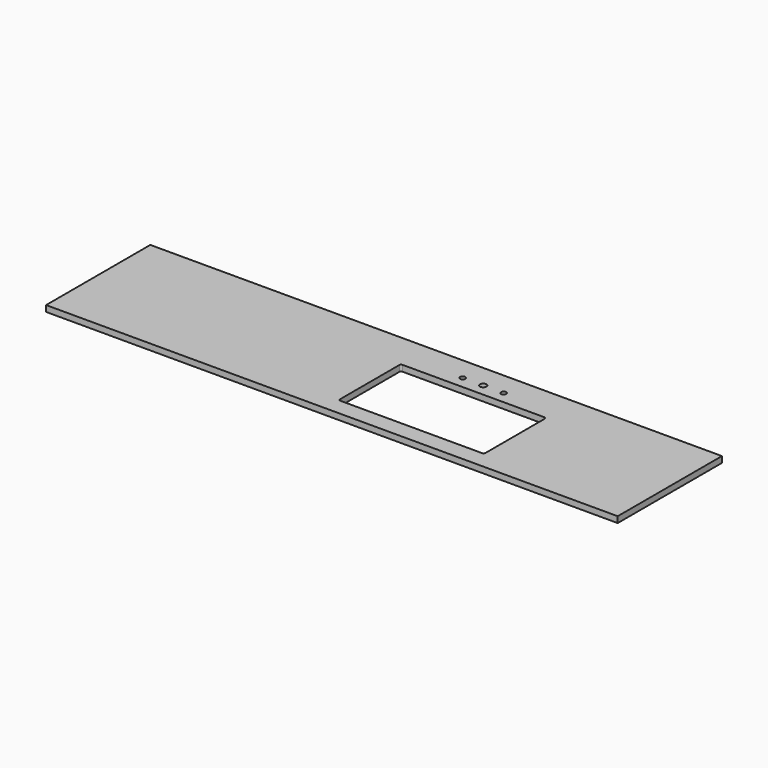
from build123d import *

# Parameters (mm, degrees)
F0_W     = 2830
F0_H     = 645
F0_R     = 13
F0_R_2   = 16
F1_DEPTH = 30


with BuildPart() as f1:
    # F0 (on Top) → F1 (new body)
    with BuildSketch(Plane.XY):
        with Locations((-1415, 322.5)):
            Rectangle(F0_W, F0_H)
        with BuildLine():
            ThreePointArc((-1450, 461), (-1447.363961, 467.363961), (-1441, 470))
            Line((-1441, 470), (-739, 470))
            ThreePointArc((-739, 470), (-732.636039, 467.363961), (-730, 461))
            Line((-730, 461), (-730, 94))
            ThreePointArc((-730, 94), (-732.636039, 87.636039), (-739, 85))
            Line((-739, 85), (-1441, 85))
            ThreePointArc((-1441, 85), (-1447.363961, 87.636039), (-1450, 94))
            Line((-1450, 94), (-1450, 461))
        make_face(mode=Mode.SUBTRACT)
        with Locations((-1191.5, 530)):
            Circle(F0_R, mode=Mode.SUBTRACT)
        with Locations((-1090, 530)):
            Circle(F0_R_2, mode=Mode.SUBTRACT)
        with Locations((-988.5, 530)):
            Circle(F0_R, mode=Mode.SUBTRACT)
    extrude(amount=F1_DEPTH)


solid = f1.part
